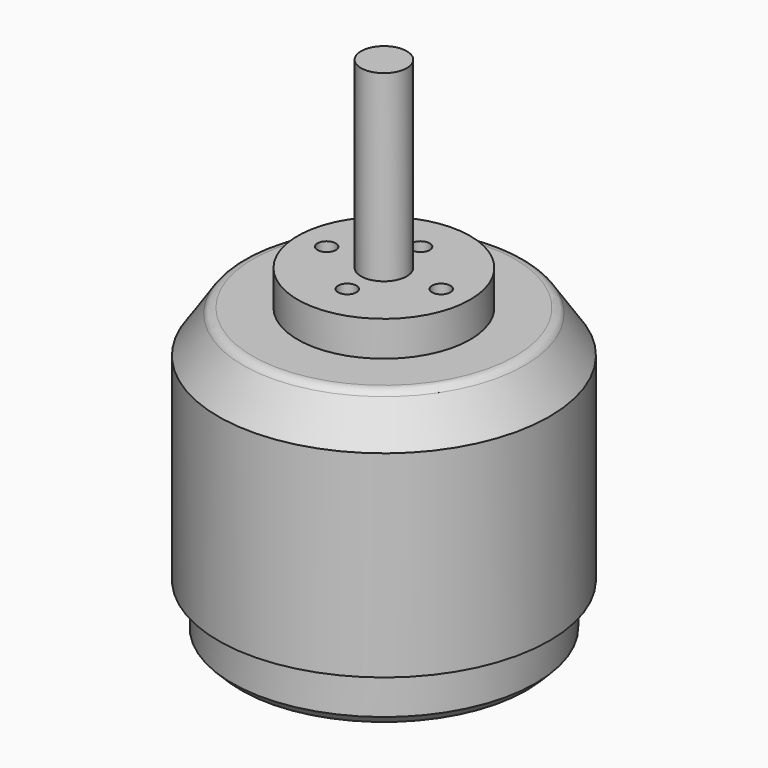
from build123d import *

# Parameters (mm, degrees)
F0_R      = 21.685
F1_DEPTH  = 31.34
F2_R      = 19.875
F3_DEPTH  = 6.7
F4_SIZE2  = 5.5
F4_SIZE   = 3.7
F5_R      = 1.5
F6_SIZE   = 1.2
F7_R      = 1.5
F8_DEPTH  = 3.8
F10_D     = 2.4
F10_DEPTH = 6
F10_TIP   = 0.7210327428
F11_R     = 6.5
F12_DEPTH = 4.8
F13_R     = 3
F15_D     = 2.4
F15_DEPTH = 4.5
F15_TIP   = 0.7210327428
F16_R     = 11.3
F17_DEPTH = 4.6
F18_D     = 2.4
F19_R     = 3
F20_DEPTH = 24


with BuildPart() as f1:
    # F0 (on Top) → F1 (new body)
    with BuildSketch(Plane.XY):
        Circle(F0_R)
    extrude(amount=F1_DEPTH)

    # F2 (on Top) → F3 (join)
    with BuildSketch(Plane.XY):
        Circle(F2_R)
    extrude(amount=-F3_DEPTH)

    # F4
    f4_edges = [f1.edges().sort_by_distance(p)[0] for p in [
        (-21.685, 0, 31.34),
    ]]
    f4_side = f1.faces().sort_by_distance((0, 0, 31.34))[0]
    chamfer(f4_edges, length=F4_SIZE, length2=F4_SIZE2, reference=f4_side)

    # F5
    f5_edges = [f1.edges().sort_by_distance(p)[0] for p in [
        (-17.985, 0, 31.34),
    ]]
    fillet(f5_edges, radius=F5_R)

    # F6
    f6_edges = [f1.edges().sort_by_distance(p)[0] for p in [
        (-19.875, 0, -6.7),
    ]]
    chamfer(f6_edges, length=F6_SIZE)

    # F7 (on face) → F8 (join)
    with BuildSketch(Plane.XY.offset(31.34)):
        Circle(F7_R)
    extrude(amount=F8_DEPTH)

    # F10
    with Locations(Plane(origin=(0, 0, -6.7), x_dir=(1, 0, 0), z_dir=(0, 0, -1))):
        with Locations((0, 12.5), (-12.5, 0), (0, -12.5), (12.5, 0)):
            Hole(F10_D / 2, depth=F10_DEPTH)
            with Locations((0, 0, -(F10_DEPTH + F10_TIP / 2))):  # 118° drill point
                Cone(0, F10_D / 2, F10_TIP, mode=Mode.SUBTRACT)

    # F11 (on face) → F12 (join)
    with BuildSketch(Plane(origin=(0, 0, -6.7), x_dir=(1, 0, 0), z_dir=(0, 0, -1))):
        Circle(F11_R)
    extrude(amount=F12_DEPTH)

    # F13
    f13_edges = [f1.edges().sort_by_distance(p)[0] for p in [
        (-6.5, 0, -11.5),
    ]]
    fillet(f13_edges, radius=F13_R)

    # F15
    with Locations(Plane.XY.offset(31.34)):
        with Locations((0, -6), (0, 6), (7.5, 0), (-7.5, 0)):
            Hole(F15_D / 2, depth=F15_DEPTH)
            with Locations((0, 0, -(F15_DEPTH + F15_TIP / 2))):  # 118° drill point
                Cone(0, F15_D / 2, F15_TIP, mode=Mode.SUBTRACT)


with BuildPart() as f17:
    # F16 (on face) → F17 (new body)
    with BuildSketch(Plane.XY.offset(31.34)):
        Circle(F16_R)
    extrude(amount=F17_DEPTH)

    # F18 (through all)
    with Locations(Plane(origin=(0, 0, 31.34), x_dir=(1, 0, 0), z_dir=(0, 0, -1))):
        with Locations((0, 6), (-7.5, 0), (7.5, 0), (0, -6)):
            Hole(F18_D / 2)

    # F19 (on face) → F20 (join)
    with BuildSketch(Plane.XY.offset(35.94)):
        Circle(F19_R)
    extrude(amount=F20_DEPTH)


solid = Compound([f1.part, f17.part])
